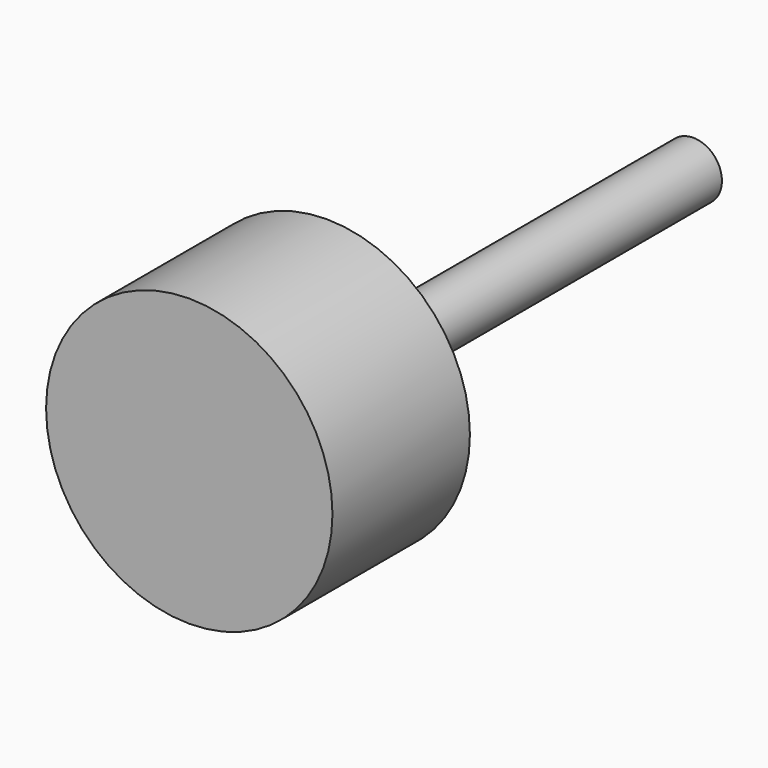
from build123d import *

# Parameters (mm, degrees)
F0_R     = 5
F1_DEPTH = 80
F3_R     = 25
F4_DEPTH = 30


with BuildPart() as f1:
    # F0 (on Front) → F1 (new body)
    with BuildSketch(Plane.XZ):
        Circle(F0_R)
    extrude(amount=-F1_DEPTH)

    # F3 (on offset) → F4 (join)
    with BuildSketch(Plane.XZ):
        Circle(F3_R)
    extrude(amount=F4_DEPTH)


solid = f1.part
